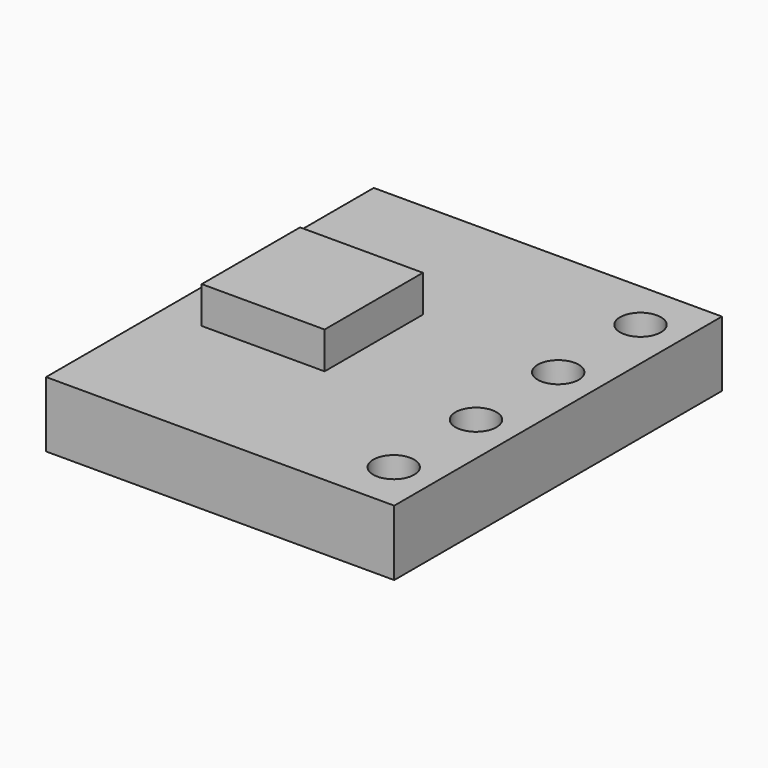
from build123d import *

# Parameters (mm, degrees)
BOX_W        = 8.5
BOX_H        = 10
BOX_DEPTH    = 1.6
SKETCH_R     = 0.5
POCKET_DEPTH = 1.601
SKETCH001_W  = 3
SKETCH001_H  = 3
PAD_DEPTH    = 0.9


with BuildPart() as part:
    # Box → Box (new body)
    with BuildSketch(Plane.XY):
        with Locations((4.25, 5)):
            Rectangle(BOX_W, BOX_H)
    extrude(amount=BOX_DEPTH)

    # Sketch (on Face6 of Box) → Pocket (cut, through all)
    with BuildSketch(Plane.XY.offset(1.6)):
        with Locations((7.5, 8.765)):
            Circle(SKETCH_R)
        with Locations((7.5, 6.255)):
            Circle(SKETCH_R)
        with Locations((7.5, 3.745)):
            Circle(SKETCH_R)
        with Locations((7.5, 1.235)):
            Circle(SKETCH_R)
    extrude(amount=-POCKET_DEPTH, mode=Mode.SUBTRACT)

    # Sketch001 (on Face6 of Box) → Pad (join)
    with BuildSketch(Plane.XY.offset(1.6)):
        with Locations((2.5, 5)):
            Rectangle(SKETCH001_W, SKETCH001_H)
    extrude(amount=PAD_DEPTH)


solid = part.part
